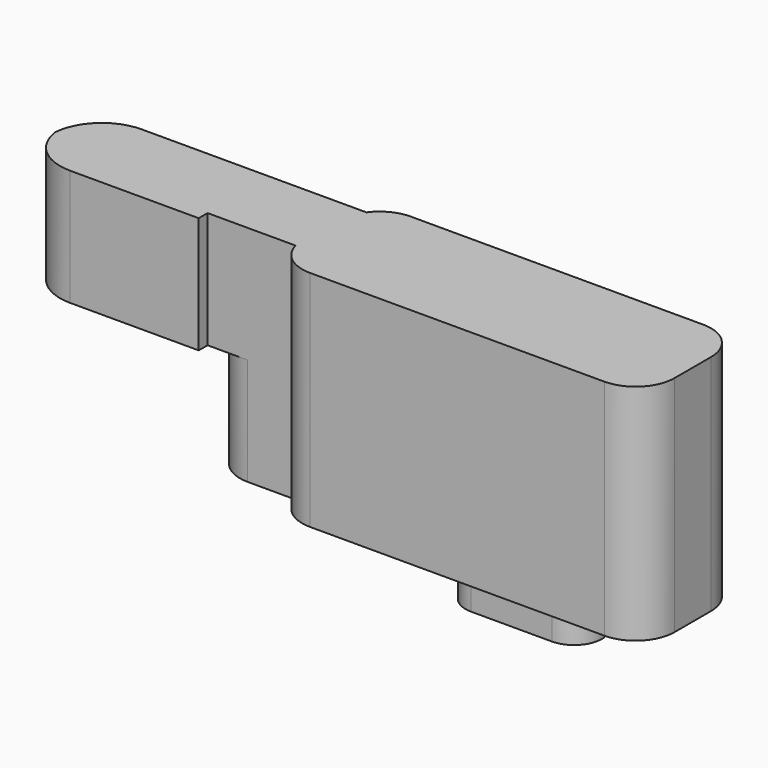
from build123d import *

# Parameters (mm, degrees)
F1_DEPTH = 31.7246
F2_DEPTH = 16.51
F4_DEPTH = 6.35
F6_DEPTH = 16.51


with BuildPart() as f1:
    # F0 (on Top) → F1 (new body)
    with BuildSketch(Plane.XY):
        with BuildLine():
            ThreePointArc((26.2763, 3.2258), (24.654492, 7.141192), (20.7391, 8.763))
            Line((20.7391, 8.763), (-20.7391, 8.763))
            ThreePointArc((-20.7391, 8.763), (-23.251486, 8.16022), (-25.216874, 6.483118))
            Line((-25.216874, 6.483118), (-33.143533, 6.483118))
            ThreePointArc((-33.143533, 6.483118), (-37.002563, 4.916872), (-38.678471, 1.104186))
            Line((-38.678471, 1.104186), (-38.679923, 1.053386))
            ThreePointArc((-38.679923, 1.053386), (-37.115939, -2.963912), (-33.144986, -4.642082))
            Line((-33.144986, -4.642082), (-26.368298, -4.642082))
            ThreePointArc((-26.368298, -4.642082), (-24.393034, -7.613443), (-21.015287, -8.763))
            Line((-21.015287, -8.763), (20.7391, -8.763))
            ThreePointArc((20.7391, -8.763), (24.654492, -7.141192), (26.2763, -3.2258))
            Line((26.2763, -3.2258), (26.2763, 3.2258))
        make_face()
    extrude(amount=-F1_DEPTH)

    # F0 (on Top) → F2 (join)
    with BuildSketch(Plane.XY):
        with BuildLine():
            ThreePointArc((-38.678471, 1.104186), (-37.002563, 4.916872), (-33.143533, 6.483118))
            Line((-33.143533, 6.483118), (-38.910577, 6.483118))
            Line((-38.910577, 6.483118), (-57.0865, 6.483118))
            ThreePointArc((-57.0865, 6.483118), (-61.001892, 4.86131), (-62.6237, 0.945918))
            Line((-62.6237, 0.945918), (-62.6237, 0.895118))
            ThreePointArc((-62.6237, 0.895118), (-61.001892, -3.020274), (-57.0865, -4.642082))
            Line((-57.0865, -4.642082), (-38.839698, -4.642082))
            Line((-38.839698, -4.642082), (-33.144986, -4.642082))
            ThreePointArc((-33.144986, -4.642082), (-37.115939, -2.963912), (-38.679923, 1.053386))
            Line((-38.679923, 1.053386), (-38.678471, 1.104186))
        make_face()
    extrude(amount=-F2_DEPTH)

    # F3 (on face) → F4 (join)
    with BuildSketch(Plane(origin=(0, 0, -31.7246), x_dir=(1, 0, 0), z_dir=(0, 0, -1))):
        with BuildLine():
            ThreePointArc((-1.9939, 3.9624), (-5.9563, 0), (-1.9939, -3.9624))
            Line((-1.9939, -3.9624), (9.4361, -3.9624))
            ThreePointArc((9.4361, -3.9624), (13.3985, 0), (9.4361, 3.9624))
            Line((9.4361, 3.9624), (-1.9939, 3.9624))
        make_face()
    extrude(amount=F4_DEPTH)

    # F5 (on Top) → F6 (join)
    with BuildSketch(Plane.XY):
        with BuildLine():
            ThreePointArc((-57.0865, 6.483118), (-61.87738, 4.616227), (-64.141945, 0))
            ThreePointArc((-64.141945, 0), (-61.788333, -4.440921), (-57.0865, -6.216882))
            Line((-57.0865, -6.216882), (-38.839698, -6.216882))
            Line((-38.839698, -6.216882), (-38.839698, -4.598211))
            Line((-38.839698, -4.598211), (-38.839698, 6.483118))
            Line((-38.839698, 6.483118), (-57.0865, 6.483118))
        make_face()
    extrude(amount=-F6_DEPTH)


solid = f1.part
